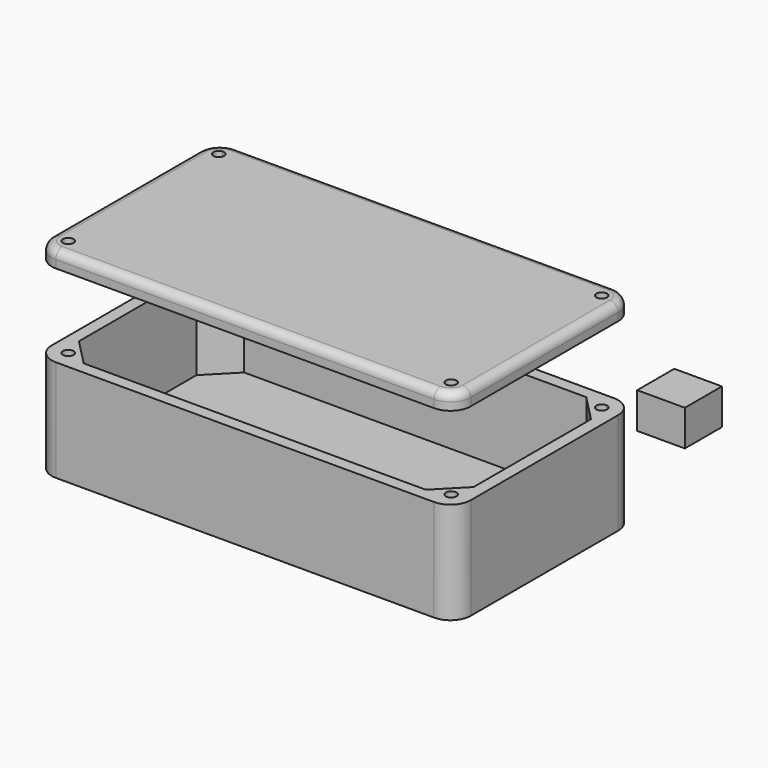
from build123d import *

# Parameters (mm, degrees)
F1_W     = 11.7021854967
F1_H     = 11.3825649023
F2_DEPTH = 8.80794
F4_DEPTH = 3
F3_DEPTH = 25
F5_START = 45.3010783531
F5_DEPTH = 3.9222645573
F6_R     = 2


with BuildPart() as f2:
    # F1 (on Top) → F2 (new body)
    with BuildSketch(Plane.XY):
        with Locations((22.6566782221, 65.1267915964)):
            Rectangle(F1_W, F1_H)
    extrude(amount=F2_DEPTH)


with BuildPart() as f4:
    # F0 (on Top) → F4 (new body)
    with BuildSketch(Plane.XY):
        with BuildLine():
            Line((34.857919652, 29.7812012451), (-57.7773717009, 29.7812012451))
            ThreePointArc((-57.7773717009, 29.7812012451), (-61.5276951664, 28.2277664023), (-63.0811300092, 24.4774429368))
            Line((-63.0811300092, 24.4774429368), (-63.0811300092, -20.4768940194))
            ThreePointArc((-63.0811300092, -20.4768940194), (-61.6166639151, -24.0124279253), (-58.0811300092, -25.4768940194))
            Line((-58.0811300092, -25.4768940194), (34.857919652, -25.4768940194))
            ThreePointArc((34.857919652, -25.4768940194), (38.3934535579, -24.0124279253), (39.857919652, -20.4768940194))
            Line((39.857919652, -20.4768940194), (39.857919652, 24.7812012451))
            ThreePointArc((39.857919652, 24.7812012451), (38.3934535579, 28.316735151), (34.857919652, 29.7812012451))
        make_face()
        with BuildLine():
            ThreePointArc((-58.73700955, 26.5718157645), (-58.2684793981, 26.728246254), (-57.7773717009, 26.7812012451))
            Line((-57.7773717009, 26.7812012451), (-53.6363086646, 26.7812012451))
            Line((-53.6363086646, 26.7812012451), (30.4130983075, 26.7812012451))
            Line((30.4130983075, 26.7812012451), (34.857919652, 26.7812012451))
            ThreePointArc((34.857919652, 26.7812012451), (35.4082478015, 26.7039958071), (35.9160876252, 26.4783401729))
            ThreePointArc((35.9160876252, 26.4783401729), (36.4076128264, 26.1261211128), (36.6871265124, 25.5899053082))
            ThreePointArc((36.6871265124, 25.5899053082), (36.8147555829, 25.1944725114), (36.857919652, 24.7812012451))
            Line((36.857919652, 24.7812012451), (36.857919652, 20.1944987733))
            Line((36.857919652, 20.1944987733), (36.857919652, -15.8901915476))
            Line((36.857919652, -15.8901915476), (36.857919652, -20.4768940194))
            ThreePointArc((36.857919652, -20.4768940194), (36.8147555829, -20.8901652857), (36.6871265124, -21.2855980825))
            ThreePointArc((36.6871265124, -21.2855980825), (36.4076128264, -21.8218138871), (35.9160876252, -22.1740329472))
            ThreePointArc((35.9160876252, -22.1740329472), (35.4082478015, -22.3996885814), (34.857919652, -22.4768940194))
            Line((34.857919652, -22.4768940194), (30.4130983075, -22.4768940194))
            Line((30.4130983075, -22.4768940194), (-53.6363086646, -22.4768940194))
            Line((-53.6363086646, -22.4768940194), (-58.0811300092, -22.4768940194))
            ThreePointArc((-58.0811300092, -22.4768940194), (-58.6314581587, -22.3996885814), (-59.1392979824, -22.1740329472))
            ThreePointArc((-59.1392979824, -22.1740329472), (-59.6308231836, -21.8218138871), (-59.9103368696, -21.2855980825))
            ThreePointArc((-59.9103368696, -21.2855980825), (-60.0379659401, -20.8901652857), (-60.0811300092, -20.4768940194))
            Line((-60.0811300092, -20.4768940194), (-60.0811300092, -15.8901915476))
            Line((-60.0811300092, -15.8901915476), (-60.0811300092, 20.1944987733))
            Line((-60.0811300092, 20.1944987733), (-60.0811300092, 24.4774429368))
            ThreePointArc((-60.0811300092, 24.4774429368), (-60.0479477693, 24.8670410125), (-59.9493569321, 25.2454159171))
            ThreePointArc((-59.9493569321, 25.2454159171), (-59.6085321277, 26.1511483084), (-58.73700955, 26.5718157645))
        make_face(mode=Mode.SUBTRACT)
        Polygon((30.4130983075, 26.7812012451), (-53.6363086646, 26.7812012451), (-60.0811300092, 20.1944987733), (-60.0811300092, -15.8901915476), (-53.6363086646, -22.4768940194), (30.4130983075, -22.4768940194), (36.857919652, -15.8901915476), (36.857919652, 20.1944987733), align=None)
        with BuildLine():
            Line((34.857919652, 26.7812012451), (30.4130983075, 26.7812012451))
            Line((30.4130983075, 26.7812012451), (36.857919652, 20.1944987733))
            Line((36.857919652, 20.1944987733), (36.857919652, 24.7812012451))
            ThreePointArc((36.857919652, 24.7812012451), (36.8147555829, 25.1944725114), (36.6871265124, 25.5899053082))
            ThreePointArc((36.6871265124, 25.5899053082), (36.7165632812, 25.4323448054), (36.7264253162, 25.2723617573))
            ThreePointArc((36.7264253162, 25.2723617573), (34.342700624, 24.5458923649), (35.9160876252, 26.4783401729))
            ThreePointArc((35.9160876252, 26.4783401729), (35.4082478015, 26.7039958071), (34.857919652, 26.7812012451))
        make_face()
        with BuildLine():
            Line((-53.6363086646, -22.4768940194), (-60.0811300092, -15.8901915476))
            Line((-60.0811300092, -15.8901915476), (-60.0811300092, -20.4768940194))
            ThreePointArc((-60.0811300092, -20.4768940194), (-60.0379659401, -20.8901652857), (-59.9103368696, -21.2855980825))
            ThreePointArc((-59.9103368696, -21.2855980825), (-58.8070561381, -19.6753539832), (-57.3445105066, -20.9680545316))
            ThreePointArc((-57.3445105066, -20.9680545316), (-57.9206036976, -22.0492166404), (-59.1392979824, -22.1740329472))
            ThreePointArc((-59.1392979824, -22.1740329472), (-58.6314581587, -22.3996885814), (-58.0811300092, -22.4768940194))
            Line((-58.0811300092, -22.4768940194), (-53.6363086646, -22.4768940194))
        make_face()
        with BuildLine():
            Line((36.857919652, -20.4768940194), (36.857919652, -15.8901915476))
            Line((36.857919652, -15.8901915476), (30.4130983075, -22.4768940194))
            Line((30.4130983075, -22.4768940194), (34.857919652, -22.4768940194))
            ThreePointArc((34.857919652, -22.4768940194), (35.4082478015, -22.3996885814), (35.9160876252, -22.1740329472))
            ThreePointArc((35.9160876252, -22.1740329472), (34.342700624, -20.2415851392), (36.7264253162, -20.9680545316))
            ThreePointArc((36.7264253162, -20.9680545316), (36.7165632812, -21.1280375797), (36.6871265124, -21.2855980825))
            ThreePointArc((36.6871265124, -21.2855980825), (36.8147555829, -20.8901652857), (36.857919652, -20.4768940194))
        make_face()
        with BuildLine():
            Line((-53.6363086646, 26.7812012451), (-57.7773717009, 26.7812012451))
            ThreePointArc((-57.7773717009, 26.7812012451), (-58.2684793981, 26.728246254), (-58.73700955, 26.5718157645))
            ThreePointArc((-58.73700955, 26.5718157645), (-57.7583882707, 26.2246792336), (-57.3445105066, 25.2723617573))
            ThreePointArc((-57.3445105066, 25.2723617573), (-58.6335994491, 23.9698688611), (-59.9493569321, 25.2454159171))
            ThreePointArc((-59.9493569321, 25.2454159171), (-60.0479477693, 24.8670410125), (-60.0811300092, 24.4774429368))
            Line((-60.0811300092, 24.4774429368), (-60.0811300092, 20.1944987733))
            Line((-60.0811300092, 20.1944987733), (-53.6363086646, 26.7812012451))
        make_face()
        with BuildLine():
            ThreePointArc((-57.3445105066, -20.9680545316), (-58.8070561381, -19.6753539832), (-59.9103368696, -21.2855980825))
            ThreePointArc((-59.9103368696, -21.2855980825), (-59.591614198, -21.7877858972), (-59.1392979824, -22.1740329472))
            ThreePointArc((-59.1392979824, -22.1740329472), (-57.9206036976, -22.0492166404), (-57.3445105066, -20.9680545316))
        make_face()
        with BuildLine():
            ThreePointArc((36.6871265124, 25.5899053082), (36.3684038408, 26.0920931229), (35.9160876252, 26.4783401729))
            ThreePointArc((35.9160876252, 26.4783401729), (34.342700624, 24.5458923649), (36.7264253162, 25.2723617573))
            ThreePointArc((36.7264253162, 25.2723617573), (36.7165632812, 25.4323448054), (36.6871265124, 25.5899053082))
        make_face()
        with BuildLine():
            ThreePointArc((35.9160876252, -22.1740329472), (36.3684038408, -21.7877858972), (36.6871265124, -21.2855980825))
            ThreePointArc((36.6871265124, -21.2855980825), (36.7165632812, -21.1280375797), (36.7264253162, -20.9680545316))
            ThreePointArc((36.7264253162, -20.9680545316), (34.342700624, -20.2415851392), (35.9160876252, -22.1740329472))
        make_face()
        with BuildLine():
            ThreePointArc((-57.3445105066, 25.2723617573), (-57.7583882707, 26.2246792336), (-58.73700955, 26.5718157645))
            ThreePointArc((-58.73700955, 26.5718157645), (-59.4778421999, 26.0316959487), (-59.9493569321, 25.2454159171))
            ThreePointArc((-59.9493569321, 25.2454159171), (-58.6335994491, 23.9698688611), (-57.3445105066, 25.2723617573))
        make_face()
        with BuildLine():
            ThreePointArc((-59.9493569321, 25.2454159171), (-59.4778421999, 26.0316959487), (-58.73700955, 26.5718157645))
            ThreePointArc((-58.73700955, 26.5718157645), (-59.6085321277, 26.1511483084), (-59.9493569321, 25.2454159171))
        make_face()
        with BuildLine():
            ThreePointArc((-59.1392979824, -22.1740329472), (-59.591614198, -21.7877858972), (-59.9103368696, -21.2855980825))
            ThreePointArc((-59.9103368696, -21.2855980825), (-59.6308231836, -21.8218138871), (-59.1392979824, -22.1740329472))
        make_face()
        with BuildLine():
            ThreePointArc((36.6871265124, 25.5899053082), (36.4076128264, 26.1261211128), (35.9160876252, 26.4783401729))
            ThreePointArc((35.9160876252, 26.4783401729), (36.3684038408, 26.0920931229), (36.6871265124, 25.5899053082))
        make_face()
        with BuildLine():
            ThreePointArc((35.9160876252, -22.1740329472), (36.4076128264, -21.8218138871), (36.6871265124, -21.2855980825))
            ThreePointArc((36.6871265124, -21.2855980825), (36.3684038408, -21.7877858972), (35.9160876252, -22.1740329472))
        make_face()
    extrude(amount=F4_DEPTH)

    # F0 (on Top) → F3 (join)
    with BuildSketch(Plane.XY):
        with BuildLine():
            Line((34.857919652, 29.7812012451), (-57.7773717009, 29.7812012451))
            ThreePointArc((-57.7773717009, 29.7812012451), (-61.5276951664, 28.2277664023), (-63.0811300092, 24.4774429368))
            Line((-63.0811300092, 24.4774429368), (-63.0811300092, -20.4768940194))
            ThreePointArc((-63.0811300092, -20.4768940194), (-61.6166639151, -24.0124279253), (-58.0811300092, -25.4768940194))
            Line((-58.0811300092, -25.4768940194), (34.857919652, -25.4768940194))
            ThreePointArc((34.857919652, -25.4768940194), (38.3934535579, -24.0124279253), (39.857919652, -20.4768940194))
            Line((39.857919652, -20.4768940194), (39.857919652, 24.7812012451))
            ThreePointArc((39.857919652, 24.7812012451), (38.3934535579, 28.316735151), (34.857919652, 29.7812012451))
        make_face()
        with BuildLine():
            ThreePointArc((-58.73700955, 26.5718157645), (-58.2684793981, 26.728246254), (-57.7773717009, 26.7812012451))
            Line((-57.7773717009, 26.7812012451), (-53.6363086646, 26.7812012451))
            Line((-53.6363086646, 26.7812012451), (30.4130983075, 26.7812012451))
            Line((30.4130983075, 26.7812012451), (34.857919652, 26.7812012451))
            ThreePointArc((34.857919652, 26.7812012451), (35.4082478015, 26.7039958071), (35.9160876252, 26.4783401729))
            ThreePointArc((35.9160876252, 26.4783401729), (36.4076128264, 26.1261211128), (36.6871265124, 25.5899053082))
            ThreePointArc((36.6871265124, 25.5899053082), (36.8147555829, 25.1944725114), (36.857919652, 24.7812012451))
            Line((36.857919652, 24.7812012451), (36.857919652, 20.1944987733))
            Line((36.857919652, 20.1944987733), (36.857919652, -15.8901915476))
            Line((36.857919652, -15.8901915476), (36.857919652, -20.4768940194))
            ThreePointArc((36.857919652, -20.4768940194), (36.8147555829, -20.8901652857), (36.6871265124, -21.2855980825))
            ThreePointArc((36.6871265124, -21.2855980825), (36.4076128264, -21.8218138871), (35.9160876252, -22.1740329472))
            ThreePointArc((35.9160876252, -22.1740329472), (35.4082478015, -22.3996885814), (34.857919652, -22.4768940194))
            Line((34.857919652, -22.4768940194), (30.4130983075, -22.4768940194))
            Line((30.4130983075, -22.4768940194), (-53.6363086646, -22.4768940194))
            Line((-53.6363086646, -22.4768940194), (-58.0811300092, -22.4768940194))
            ThreePointArc((-58.0811300092, -22.4768940194), (-58.6314581587, -22.3996885814), (-59.1392979824, -22.1740329472))
            ThreePointArc((-59.1392979824, -22.1740329472), (-59.6308231836, -21.8218138871), (-59.9103368696, -21.2855980825))
            ThreePointArc((-59.9103368696, -21.2855980825), (-60.0379659401, -20.8901652857), (-60.0811300092, -20.4768940194))
            Line((-60.0811300092, -20.4768940194), (-60.0811300092, -15.8901915476))
            Line((-60.0811300092, -15.8901915476), (-60.0811300092, 20.1944987733))
            Line((-60.0811300092, 20.1944987733), (-60.0811300092, 24.4774429368))
            ThreePointArc((-60.0811300092, 24.4774429368), (-60.0479477693, 24.8670410125), (-59.9493569321, 25.2454159171))
            ThreePointArc((-59.9493569321, 25.2454159171), (-59.6085321277, 26.1511483084), (-58.73700955, 26.5718157645))
        make_face(mode=Mode.SUBTRACT)
        with BuildLine():
            Line((36.857919652, -20.4768940194), (36.857919652, -15.8901915476))
            Line((36.857919652, -15.8901915476), (30.4130983075, -22.4768940194))
            Line((30.4130983075, -22.4768940194), (34.857919652, -22.4768940194))
            ThreePointArc((34.857919652, -22.4768940194), (35.4082478015, -22.3996885814), (35.9160876252, -22.1740329472))
            ThreePointArc((35.9160876252, -22.1740329472), (34.342700624, -20.2415851392), (36.7264253162, -20.9680545316))
            ThreePointArc((36.7264253162, -20.9680545316), (36.7165632812, -21.1280375797), (36.6871265124, -21.2855980825))
            ThreePointArc((36.6871265124, -21.2855980825), (36.8147555829, -20.8901652857), (36.857919652, -20.4768940194))
        make_face()
        with BuildLine():
            Line((34.857919652, 26.7812012451), (30.4130983075, 26.7812012451))
            Line((30.4130983075, 26.7812012451), (36.857919652, 20.1944987733))
            Line((36.857919652, 20.1944987733), (36.857919652, 24.7812012451))
            ThreePointArc((36.857919652, 24.7812012451), (36.8147555829, 25.1944725114), (36.6871265124, 25.5899053082))
            ThreePointArc((36.6871265124, 25.5899053082), (36.7165632812, 25.4323448054), (36.7264253162, 25.2723617573))
            ThreePointArc((36.7264253162, 25.2723617573), (34.342700624, 24.5458923649), (35.9160876252, 26.4783401729))
            ThreePointArc((35.9160876252, 26.4783401729), (35.4082478015, 26.7039958071), (34.857919652, 26.7812012451))
        make_face()
        with BuildLine():
            Line((-53.6363086646, 26.7812012451), (-57.7773717009, 26.7812012451))
            ThreePointArc((-57.7773717009, 26.7812012451), (-58.2684793981, 26.728246254), (-58.73700955, 26.5718157645))
            ThreePointArc((-58.73700955, 26.5718157645), (-57.7583882707, 26.2246792336), (-57.3445105066, 25.2723617573))
            ThreePointArc((-57.3445105066, 25.2723617573), (-58.6335994491, 23.9698688611), (-59.9493569321, 25.2454159171))
            ThreePointArc((-59.9493569321, 25.2454159171), (-60.0479477693, 24.8670410125), (-60.0811300092, 24.4774429368))
            Line((-60.0811300092, 24.4774429368), (-60.0811300092, 20.1944987733))
            Line((-60.0811300092, 20.1944987733), (-53.6363086646, 26.7812012451))
        make_face()
        with BuildLine():
            Line((-53.6363086646, -22.4768940194), (-60.0811300092, -15.8901915476))
            Line((-60.0811300092, -15.8901915476), (-60.0811300092, -20.4768940194))
            ThreePointArc((-60.0811300092, -20.4768940194), (-60.0379659401, -20.8901652857), (-59.9103368696, -21.2855980825))
            ThreePointArc((-59.9103368696, -21.2855980825), (-58.8070561381, -19.6753539832), (-57.3445105066, -20.9680545316))
            ThreePointArc((-57.3445105066, -20.9680545316), (-57.9206036976, -22.0492166404), (-59.1392979824, -22.1740329472))
            ThreePointArc((-59.1392979824, -22.1740329472), (-58.6314581587, -22.3996885814), (-58.0811300092, -22.4768940194))
            Line((-58.0811300092, -22.4768940194), (-53.6363086646, -22.4768940194))
        make_face()
    extrude(amount=F3_DEPTH)


with BuildPart() as f5:
    # F0 (on Top) → F5 (new body)
    with BuildSketch(Plane.XY.offset(F5_START)):
        with BuildLine():
            Line((34.857919652, 29.7812012451), (-57.7773717009, 29.7812012451))
            ThreePointArc((-57.7773717009, 29.7812012451), (-61.5276951664, 28.2277664023), (-63.0811300092, 24.4774429368))
            Line((-63.0811300092, 24.4774429368), (-63.0811300092, -20.4768940194))
            ThreePointArc((-63.0811300092, -20.4768940194), (-61.6166639151, -24.0124279253), (-58.0811300092, -25.4768940194))
            Line((-58.0811300092, -25.4768940194), (34.857919652, -25.4768940194))
            ThreePointArc((34.857919652, -25.4768940194), (38.3934535579, -24.0124279253), (39.857919652, -20.4768940194))
            Line((39.857919652, -20.4768940194), (39.857919652, 24.7812012451))
            ThreePointArc((39.857919652, 24.7812012451), (38.3934535579, 28.316735151), (34.857919652, 29.7812012451))
        make_face()
        with BuildLine():
            ThreePointArc((-58.73700955, 26.5718157645), (-58.2684793981, 26.728246254), (-57.7773717009, 26.7812012451))
            Line((-57.7773717009, 26.7812012451), (-53.6363086646, 26.7812012451))
            Line((-53.6363086646, 26.7812012451), (30.4130983075, 26.7812012451))
            Line((30.4130983075, 26.7812012451), (34.857919652, 26.7812012451))
            ThreePointArc((34.857919652, 26.7812012451), (35.4082478015, 26.7039958071), (35.9160876252, 26.4783401729))
            ThreePointArc((35.9160876252, 26.4783401729), (36.4076128264, 26.1261211128), (36.6871265124, 25.5899053082))
            ThreePointArc((36.6871265124, 25.5899053082), (36.8147555829, 25.1944725114), (36.857919652, 24.7812012451))
            Line((36.857919652, 24.7812012451), (36.857919652, 20.1944987733))
            Line((36.857919652, 20.1944987733), (36.857919652, -15.8901915476))
            Line((36.857919652, -15.8901915476), (36.857919652, -20.4768940194))
            ThreePointArc((36.857919652, -20.4768940194), (36.8147555829, -20.8901652857), (36.6871265124, -21.2855980825))
            ThreePointArc((36.6871265124, -21.2855980825), (36.4076128264, -21.8218138871), (35.9160876252, -22.1740329472))
            ThreePointArc((35.9160876252, -22.1740329472), (35.4082478015, -22.3996885814), (34.857919652, -22.4768940194))
            Line((34.857919652, -22.4768940194), (30.4130983075, -22.4768940194))
            Line((30.4130983075, -22.4768940194), (-53.6363086646, -22.4768940194))
            Line((-53.6363086646, -22.4768940194), (-58.0811300092, -22.4768940194))
            ThreePointArc((-58.0811300092, -22.4768940194), (-58.6314581587, -22.3996885814), (-59.1392979824, -22.1740329472))
            ThreePointArc((-59.1392979824, -22.1740329472), (-59.6308231836, -21.8218138871), (-59.9103368696, -21.2855980825))
            ThreePointArc((-59.9103368696, -21.2855980825), (-60.0379659401, -20.8901652857), (-60.0811300092, -20.4768940194))
            Line((-60.0811300092, -20.4768940194), (-60.0811300092, -15.8901915476))
            Line((-60.0811300092, -15.8901915476), (-60.0811300092, 20.1944987733))
            Line((-60.0811300092, 20.1944987733), (-60.0811300092, 24.4774429368))
            ThreePointArc((-60.0811300092, 24.4774429368), (-60.0479477693, 24.8670410125), (-59.9493569321, 25.2454159171))
            ThreePointArc((-59.9493569321, 25.2454159171), (-59.6085321277, 26.1511483084), (-58.73700955, 26.5718157645))
        make_face(mode=Mode.SUBTRACT)
        Polygon((30.4130983075, 26.7812012451), (-53.6363086646, 26.7812012451), (-60.0811300092, 20.1944987733), (-60.0811300092, -15.8901915476), (-53.6363086646, -22.4768940194), (30.4130983075, -22.4768940194), (36.857919652, -15.8901915476), (36.857919652, 20.1944987733), align=None)
        with BuildLine():
            Line((36.857919652, -20.4768940194), (36.857919652, -15.8901915476))
            Line((36.857919652, -15.8901915476), (30.4130983075, -22.4768940194))
            Line((30.4130983075, -22.4768940194), (34.857919652, -22.4768940194))
            ThreePointArc((34.857919652, -22.4768940194), (35.4082478015, -22.3996885814), (35.9160876252, -22.1740329472))
            ThreePointArc((35.9160876252, -22.1740329472), (34.342700624, -20.2415851392), (36.7264253162, -20.9680545316))
            ThreePointArc((36.7264253162, -20.9680545316), (36.7165632812, -21.1280375797), (36.6871265124, -21.2855980825))
            ThreePointArc((36.6871265124, -21.2855980825), (36.8147555829, -20.8901652857), (36.857919652, -20.4768940194))
        make_face()
        with BuildLine():
            Line((34.857919652, 26.7812012451), (30.4130983075, 26.7812012451))
            Line((30.4130983075, 26.7812012451), (36.857919652, 20.1944987733))
            Line((36.857919652, 20.1944987733), (36.857919652, 24.7812012451))
            ThreePointArc((36.857919652, 24.7812012451), (36.8147555829, 25.1944725114), (36.6871265124, 25.5899053082))
            ThreePointArc((36.6871265124, 25.5899053082), (36.7165632812, 25.4323448054), (36.7264253162, 25.2723617573))
            ThreePointArc((36.7264253162, 25.2723617573), (34.342700624, 24.5458923649), (35.9160876252, 26.4783401729))
            ThreePointArc((35.9160876252, 26.4783401729), (35.4082478015, 26.7039958071), (34.857919652, 26.7812012451))
        make_face()
        with BuildLine():
            Line((-53.6363086646, -22.4768940194), (-60.0811300092, -15.8901915476))
            Line((-60.0811300092, -15.8901915476), (-60.0811300092, -20.4768940194))
            ThreePointArc((-60.0811300092, -20.4768940194), (-60.0379659401, -20.8901652857), (-59.9103368696, -21.2855980825))
            ThreePointArc((-59.9103368696, -21.2855980825), (-58.8070561381, -19.6753539832), (-57.3445105066, -20.9680545316))
            ThreePointArc((-57.3445105066, -20.9680545316), (-57.9206036976, -22.0492166404), (-59.1392979824, -22.1740329472))
            ThreePointArc((-59.1392979824, -22.1740329472), (-58.6314581587, -22.3996885814), (-58.0811300092, -22.4768940194))
            Line((-58.0811300092, -22.4768940194), (-53.6363086646, -22.4768940194))
        make_face()
        with BuildLine():
            Line((-53.6363086646, 26.7812012451), (-57.7773717009, 26.7812012451))
            ThreePointArc((-57.7773717009, 26.7812012451), (-58.2684793981, 26.728246254), (-58.73700955, 26.5718157645))
            ThreePointArc((-58.73700955, 26.5718157645), (-57.7583882707, 26.2246792336), (-57.3445105066, 25.2723617573))
            ThreePointArc((-57.3445105066, 25.2723617573), (-58.6335994491, 23.9698688611), (-59.9493569321, 25.2454159171))
            ThreePointArc((-59.9493569321, 25.2454159171), (-60.0479477693, 24.8670410125), (-60.0811300092, 24.4774429368))
            Line((-60.0811300092, 24.4774429368), (-60.0811300092, 20.1944987733))
            Line((-60.0811300092, 20.1944987733), (-53.6363086646, 26.7812012451))
        make_face()
    extrude(amount=F5_DEPTH)

    # F6
    f6_edges = [f5.edges().sort_by_distance(p)[0] for p in [
        (-11.459726, 29.781201, 49.223343),
        (-63.08113, 2.000274, 49.223343),
    ]]
    fillet(f6_edges, radius=F6_R)


solid = Compound([f2.part, f4.part, f5.part])
